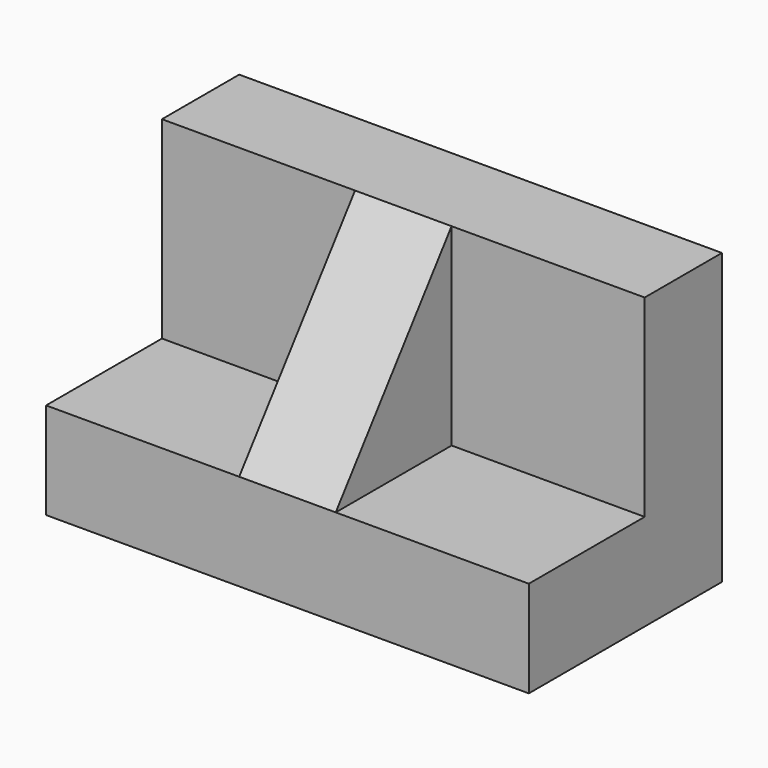
from build123d import *

# Parameters (mm, degrees)
F0_W     = 127
F0_H     = 76.2
F1_DEPTH = 63.5
F2_W     = 38.1
F2_H     = 50.8
F3_DEPTH = 50.8
F4_W     = 38.1
F4_H     = 50.8
F5_DEPTH = 50.8
F7_DEPTH = 76.201


with BuildPart() as f1:
    # F0 (on Front) → F1 (new body)
    with BuildSketch(Plane.XZ):
        with Locations((-31.45163, -18.051595)):
            Rectangle(F0_W, F0_H)
    extrude(amount=F1_DEPTH)

    # F2 (on face) → F3 (cut)
    with BuildSketch(Plane.YZ.offset(32.04837)):
        with Locations((-44.45, -5.351595)):
            Rectangle(F2_W, F2_H)
    extrude(amount=-F3_DEPTH, mode=Mode.SUBTRACT)

    # F4 (on face) → F5 (cut)
    with BuildSketch(Plane(origin=(-94.95163, 0, 0), x_dir=(0, -1, 0), z_dir=(-1, 0, 0))):
        with Locations((44.45, -5.351595)):
            Rectangle(F4_W, F4_H)
    extrude(amount=-F5_DEPTH, mode=Mode.SUBTRACT)

    # F6 (on face) → F7 (cut, through all)
    with BuildSketch(Plane(origin=(-44.15163, 0, 0), x_dir=(0, -1, 0), z_dir=(-1, 0, 0))):
        Polygon((63.5, 20.048405), (25.4, 20.048405), (63.5, -30.751595), align=None)
    extrude(amount=-F7_DEPTH, mode=Mode.SUBTRACT)


solid = f1.part
